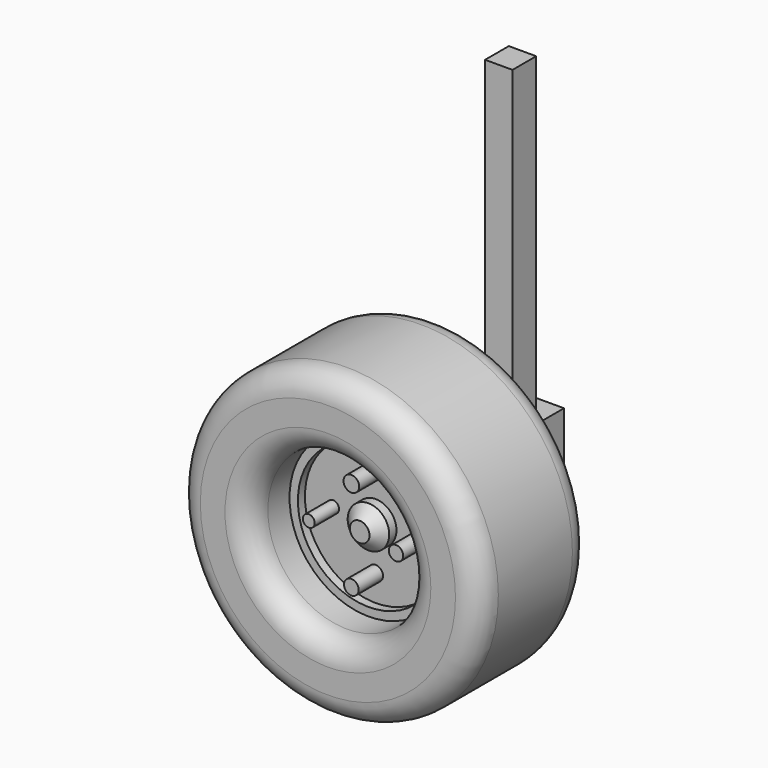
from build123d import *

# Parameters (mm, degrees)
F0_R      = 19.265609
F1_DEPTH  = 28.194
F2_R      = 76.715917
F3_DEPTH  = 9.652
F4_SIZE   = 10.16
F5_R      = 76.623003
F5_R_2    = 65.62423
F6_DEPTH  = 17.78
F7_R      = 140.410315
F7_R_2    = 73.406881
F8_DEPTH  = 65.024
F9_R      = 22.075569
F10_R     = 7.246606
F10_R_2   = 6.662483
F10_R_3   = 6.800081
F10_R_4   = 5.519125
F11_DEPTH = 37.846
F12_R     = 12.893093
F13_DEPTH = 170.434
F14_W     = 70.021615
F14_H     = 44.968011
F15_DEPTH = 22.352
F16_W     = 27.50209
F16_H     = 304.814771
F17_DEPTH = 12.7


with BuildPart() as f1:
    # F0 (on Front) → F1 (new body, symmetric)
    with BuildSketch(Plane.XZ):
        Circle(F0_R)
    extrude(amount=F1_DEPTH, both=True)

    # F2 (on Front) → F3 (join, symmetric)
    with BuildSketch(Plane.XZ):
        Circle(F2_R)
    extrude(amount=F3_DEPTH, both=True)

    # F4
    f4_edges = [f1.edges().sort_by_distance(p)[0] for p in [
        (-19.265609, -28.194, 0),
    ]]
    chamfer(f4_edges, length=F4_SIZE)

    # F5 (on Front) → F6 (join, symmetric)
    with BuildSketch(Plane.XZ):
        Circle(F5_R)
        Circle(F5_R_2, mode=Mode.SUBTRACT)
    extrude(amount=F6_DEPTH, both=True)

    # F7 (on Front) → F8 (join, symmetric)
    with BuildSketch(Plane.XZ):
        Circle(F7_R)
        Circle(F7_R_2, mode=Mode.SUBTRACT)
    extrude(amount=F8_DEPTH, both=True)

    # F9
    f9_edges = [f1.edges().sort_by_distance(p)[0] for p in [
        (-140.410315, 65.024, 0),
        (-73.406881, 65.024, 0),
        (-140.410315, -65.024, 0),
        (-73.406881, -65.024, 0),
    ]]
    fillet(f9_edges, radius=F9_R)

    # F10 (on Front) → F11 (join, symmetric)
    with BuildSketch(Plane.XZ):
        with Locations((0, 43.201409)):
            Circle(F10_R)
        with Locations((41.43481, 0)):
            Circle(F10_R_2)
        with Locations((0, -41.274209)):
            Circle(F10_R_3)
        with Locations((-39.507613, 0)):
            Circle(F10_R_4)
    extrude(amount=F11_DEPTH, both=True)

    # F12 (on Front) → F13 (join)
    with BuildSketch(Plane.XZ):
        Circle(F12_R)
    extrude(amount=-F13_DEPTH)

    # F14 (on Right) → F15 (join, symmetric)
    with BuildSketch(Plane.YZ):
        with Locations((145.725421, 0.803)):
            Rectangle(F14_W, F14_H)
    extrude(amount=F15_DEPTH, both=True)

    # F16 (on Right) → F17 (join, symmetric)
    with BuildSketch(Plane.YZ):
        with Locations((146.83339, 163.384787)):
            Rectangle(F16_W, F16_H)
    extrude(amount=F17_DEPTH, both=True)


solid = f1.part
